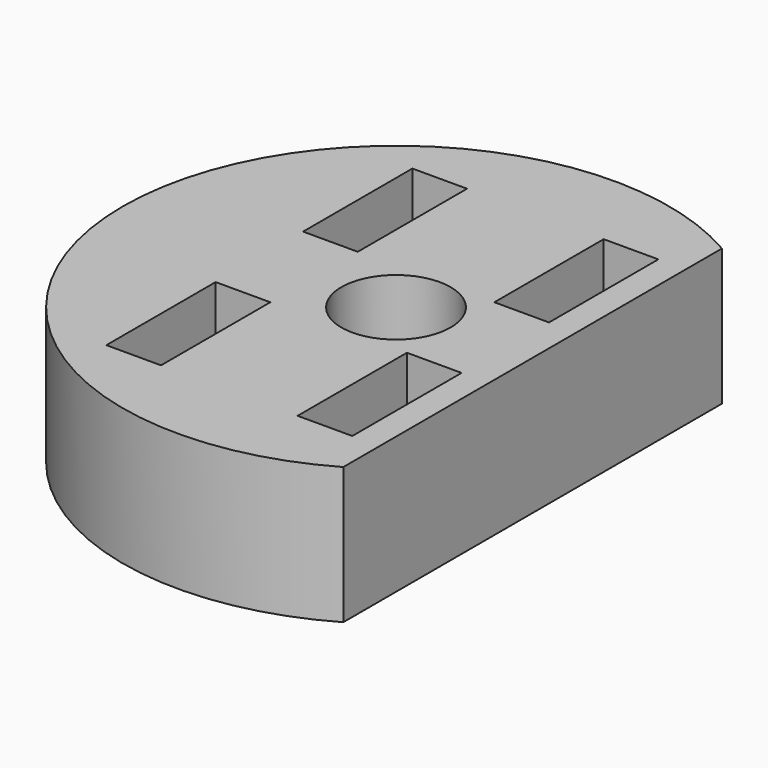
from build123d import *

# Parameters (mm, degrees)
PAD003_DEPTH    = 5
SKETCH008_W     = 2
SKETCH008_H     = 5
POCKET004_DEPTH = 5
SKETCH009_R     = 2
POCKET005_DEPTH = 4


with BuildPart() as part:
    # Sketch007 → Pad003 (new body)
    with BuildSketch(Plane.XY):
        with BuildLine():
            ThreePointArc((5, 8.660254), (-10, 0), (5, -8.660254))
            Line((5, 8.660254), (5, -8.660254))
        make_face()
    extrude(amount=PAD003_DEPTH)

    # Sketch008 → Pocket004 (cut)
    with BuildSketch(Plane.XY.offset(5)):
        with Locations((-4, 4.5)):
            Rectangle(SKETCH008_W, SKETCH008_H)
        with Locations((3, 4.5)):
            Rectangle(SKETCH008_W, SKETCH008_H)
        with Locations((3, -4.5)):
            Rectangle(SKETCH008_W, SKETCH008_H)
        with Locations((-4, -4.5)):
            Rectangle(SKETCH008_W, SKETCH008_H)
    extrude(amount=-POCKET004_DEPTH, mode=Mode.SUBTRACT)

    # Sketch009 → Pocket005 (cut)
    with BuildSketch(Plane.XY.offset(5)):
        Circle(SKETCH009_R)
    extrude(amount=-POCKET005_DEPTH, mode=Mode.SUBTRACT)


solid = part.part
